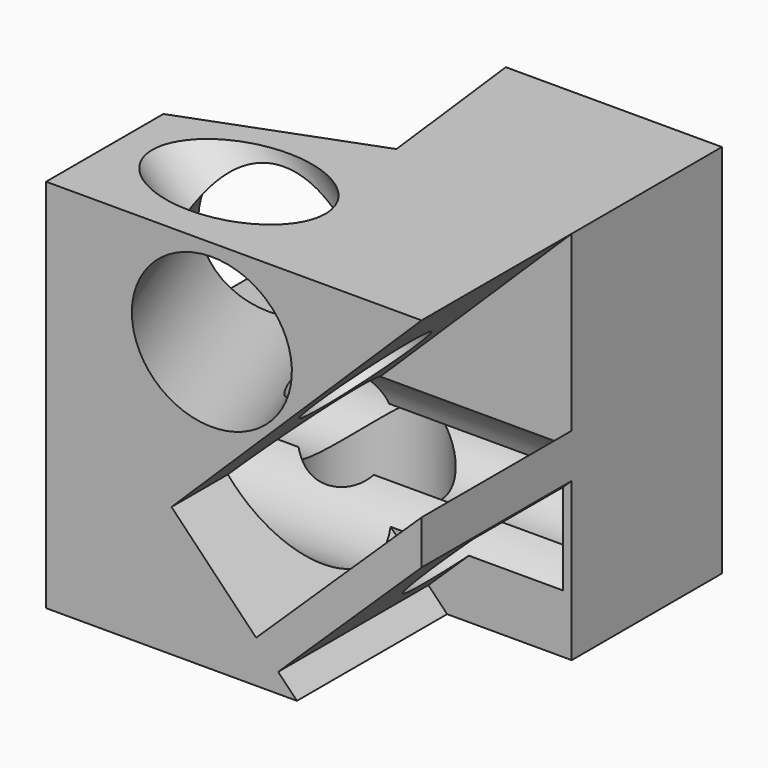
from build123d import *

# Parameters (mm, degrees)
F0_W      = 87
F0_H      = 87
F1_DEPTH  = 87
F3_DEPTH  = 43.5
F5_DEPTH  = 43.5
F6_R      = 14.4377052149
F7_DEPTH  = 85
F8_R      = 13.9088324257
F9_DEPTH  = 85
F10_R     = 14.310913908
F11_DEPTH = 87
F13_DEPTH = 43.5
F15_DEPTH = 85
F16_R     = 17.3517727339
F17_DEPTH = 87


with BuildPart() as f1:
    # F0 (on Front) → F1 (new body)
    with BuildSketch(Plane.XZ):
        with Locations((1.9772734489, 0)):
            Rectangle(F0_W, F0_H)
    extrude(amount=F1_DEPTH)

    # F2 (on face) → F3 (cut)
    with BuildSketch(Plane.XY.offset(43.5)):
        Polygon((-41.5227265511, 0), (-41.5227265511, -53.0289933085), (0, -37.420453267), (-4.6001030132, 0), align=None)
    extrude(amount=-F3_DEPTH, mode=Mode.SUBTRACT)

    # F4 (on face) → F5 (cut)
    with BuildSketch(Plane.XZ.offset(87)):
        Polygon((45.4772734489, 43.5), (-12.4589475545, -13.403512232), (16.6048314422, -43.5), (45.4772734489, -43.5), align=None)
    extrude(amount=-F5_DEPTH, mode=Mode.SUBTRACT)

    # F6 (on face) → F7 (cut)
    with BuildSketch(Plane(origin=(0, 0, -43.5), x_dir=(1, 0, 0), z_dir=(0, 0, -1))):
        with Locations((-13.5299172252, 26.452422142)):
            Circle(F6_R)
    extrude(amount=-F7_DEPTH, mode=Mode.SUBTRACT)

    # F8 (on face) → F9 (cut)
    with BuildSketch(Plane(origin=(-41.5227265511, 0, 0), x_dir=(0, -1, 0), z_dir=(-1, 0, 0))):
        with Locations((25.2458769828, -18.6489578336)):
            Circle(F8_R)
    extrude(amount=-F9_DEPTH, mode=Mode.SUBTRACT)

    # F10 (on face) → F11 (cut)
    with BuildSketch(Plane(origin=(0.5832279038, 0, -0.593812568), x_dir=(0.7134366695, 0, 0.7007197147), z_dir=(0.7007197147, 0, -0.7134366695))):
        with Locations((20.3147400171, 65.25)):
            Circle(F10_R)
    extrude(amount=-F11_DEPTH, mode=Mode.SUBTRACT)

    # F12 (on face) → F13 (join)
    with BuildSketch(Plane.XZ.offset(43.5)):
        Polygon((45.4772734489, 3.3152910087), (7.1438206622, -33.7028158401), (12.2559760747, -38.9966189225), (45.4772734489, -6.9152527408), align=None)
    extrude(amount=F13_DEPTH)

    # F14 (on face) → F15 (cut)
    with BuildSketch(Plane(origin=(-41.5227265511, 0, 0), x_dir=(0, -1, 0), z_dir=(-1, 0, 0))):
        with BuildLine():
            ThreePointArc((37.9539034635, -24.3024242405), (57.8630917211, -32.0424114958), (70.742568812, -15.001218766))
            ThreePointArc((70.742568812, -15.001218766), (65.5543826661, -2.4758294084), (53.0289933085, 2.7123567374))
            Line((53.0289933085, 2.7123567374), (53.0289933085, 0))
            Line((53.0289933085, 0), (43.6091104722, 0))
            ThreePointArc((43.6091104722, 0), (38.9372170577, -4.2684372434), (36.0638383113, -9.9066851234))
            ThreePointArc((36.0638383113, -9.9066851234), (38.3592447949, -14.0126657732), (39.1547094085, -18.6489578336))
            ThreePointArc((39.1547094085, -18.6489578336), (38.8511963511, -21.5387509634), (37.9539034635, -24.3024242405))
        make_face()
        with BuildLine():
            Line((53.0289933085, 0), (53.0289933085, 2.7123567374))
            ThreePointArc((53.0289933085, 2.7123567374), (48.1276906317, 2.0207666994), (43.6091104722, 0))
            Line((43.6091104722, 0), (53.0289933085, 0))
        make_face()
    extrude(amount=-F15_DEPTH, mode=Mode.SUBTRACT)

    # F16 (on face) → F17 (cut)
    with BuildSketch(Plane(origin=(12.3249261037, -32.7874698726, 0), x_dir=(-0.9360508251, -0.3518648219, 0), z_dir=(-0.3518648219, 0.9360508251, 0))):
        with Locations((33.5201099515, 23.305317387)):
            Circle(F16_R)
    extrude(amount=-F17_DEPTH, mode=Mode.SUBTRACT)


solid = f1.part
